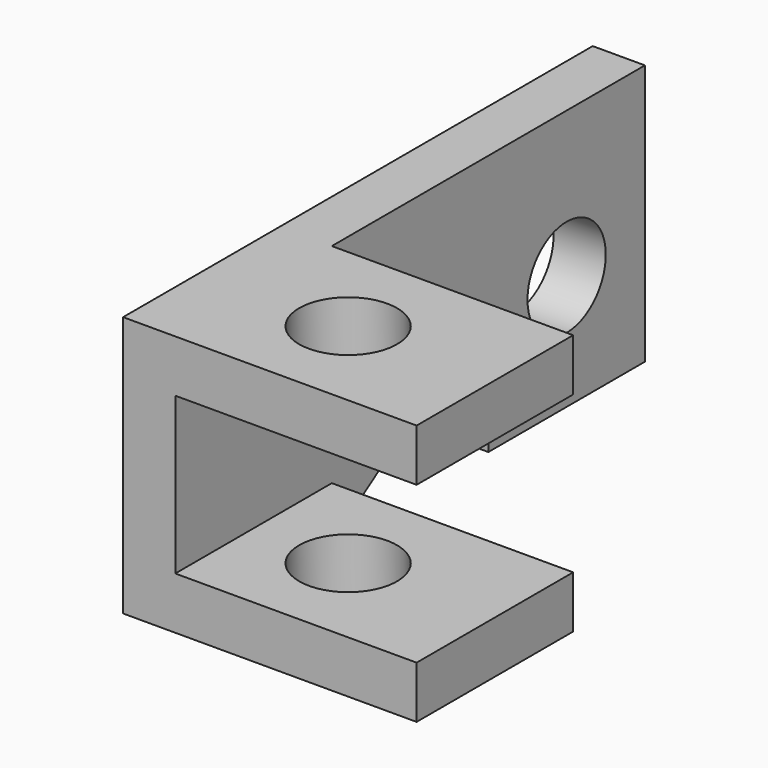
from build123d import *

# Parameters (mm, degrees)
F1_DEPTH = 203.2
F2_W     = 762
F2_H     = 203.2
F3_DEPTH = 939.8
F5_D     = 381
F7_D     = 381


with BuildPart() as f1:
    # F0 (on Right) → F1 (new body)
    with BuildSketch(Plane.YZ):
        Polygon((0, 1016), (0, 0), (762, 0), (1524, 508), (1524, 0), (2286, 0), (2286, 1016), align=None)
        Polygon((0, 1016), (0, 0), (762, 0), (1524, 508), (1524, 0), (2286, 0), (2286, 1016), align=None)
    extrude(amount=F1_DEPTH)

    # F2 (on face) → F3 (join)
    with BuildSketch(Plane.YZ.offset(203.2)):
        with Locations((381, 101.6)):
            Rectangle(F2_W, F2_H)
        with Locations((381, 914.4)):
            Rectangle(F2_W, F2_H)
    extrude(amount=F3_DEPTH)

    # F5 (through all)
    with Locations(Plane.XY.offset(1016)):
        with Locations((571.5, 381)):
            Hole(F5_D / 2)

    # F7 (through all)
    with Locations(Plane.YZ.offset(203.2)):
        with Locations((1905, 444.5)):
            Hole(F7_D / 2)


solid = f1.part
